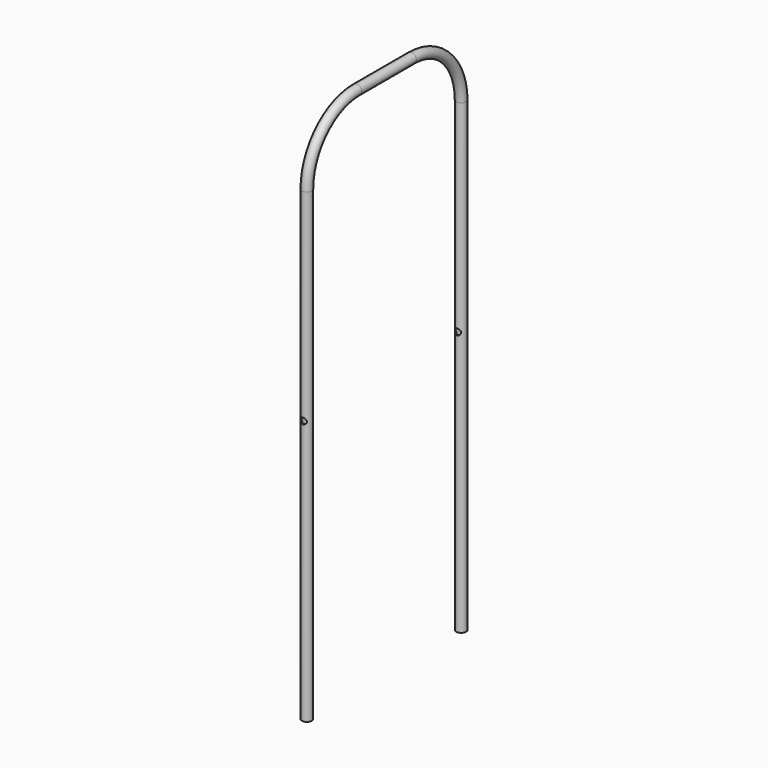
from build123d import *

# Parameters (mm, degrees)
F1_R     = 8
F3_T     = -1.5
F5_D     = 10
F5_DEPTH = 318.0010001
F6_D     = 10


with BuildPart() as f2:
    # F2: sweep along a path in F0
    with BuildLine(Plane.YZ) as f2_path:
        Line((-310, 0), (-310, 750))
        ThreePointArc((-310, 750), (-280.7106781187, 820.7106781187), (-210, 850))
        Line((-210, 850), (-100, 850))
        ThreePointArc((-100, 850), (-29.2893218813, 820.7106781187), (0, 750))
        Line((0, 750), (0, 0))
    # F1 (on Top) → F2 (sweep)
    with BuildSketch(Plane.XY):
        Circle(F1_R)
    sweep(path=f2_path.line)

    # F3
    f3_openings = [f2.faces().sort_by_distance(p)[0] for p in [
        (0, -310, 0),
        (0, 0, 0),
    ]]
    offset(amount=F3_T, openings=f3_openings)

    # F5 (through all, one way)
    with BuildSketch(Plane(origin=(0, 0, 0), x_dir=(1, 0, 0), z_dir=(0, 1, 0))):
        with Locations((0, -425)):
            Circle(F5_D / 2)
    extrude(amount=-F5_DEPTH, mode=Mode.SUBTRACT)

    # F6 (through all)
    with Locations(Plane.XZ):
        with Locations((0, 425)):
            Hole(F6_D / 2)


solid = f2.part
